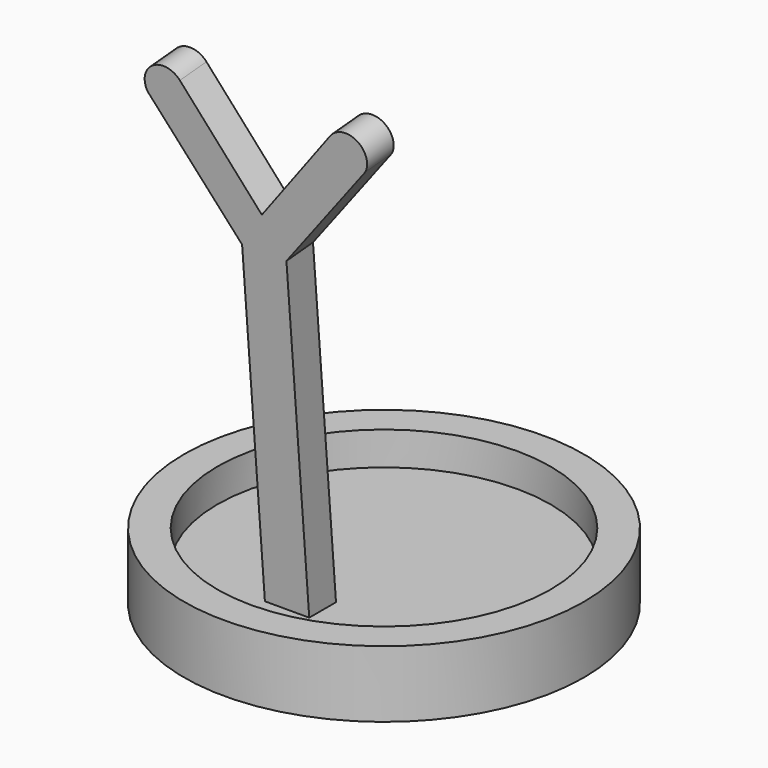
from build123d import *

# Parameters (mm, degrees)
F1_DEPTH = 5
F2_ANGLE = -90
F3_R     = 30
F4_DEPTH = 10
F5_T     = -5
F7_ANGLE = 95


with BuildPart() as f1:
    # F0 (on Front) → F1 (new body)
    with BuildSketch(Plane.XZ):
        with BuildLine():
            Line((0, -54.7956265509), (0, 0))
            Line((0, 0), (-11.2785175443, 14.6720530465))
            ThreePointArc((-11.2785175443, 14.6720530465), (-15.303909638, 15.3671784861), (-16.3261536509, 11.4121818915))
            Line((-16.3261536509, 11.4121818915), (-3.3261657227, -5.2160727791))
            Line((-3.3261657227, -5.2160727791), (-3.3261657227, -54.7956265509))
            Line((-3.3261657227, -54.7956265509), (0, -54.7956265509))
        make_face()
        with BuildLine():
            Line((11.2785175443, 14.6720530465), (0, 0))
            Line((0, 0), (0, -54.7956265509))
            Line((0, -54.7956265509), (3.3261657227, -54.7956265509))
            Line((3.3261657227, -54.7956265509), (3.3261657227, -5.2160727791))
            Line((3.3261657227, -5.2160727791), (16.3261536509, 11.4121818915))
            ThreePointArc((16.3261536509, 11.4121818915), (15.303909638, 15.3671784861), (11.2785175443, 14.6720530465))
        make_face()
    extrude(amount=F1_DEPTH)


with BuildPart() as f1_1:
    # F2: moved
    add(f1.part.rotate(Axis((0, 0, -54.7956265509), (1, 0, 0)), F2_ANGLE))


with BuildPart() as f4:
    # F3 (on Top) → F4 (new body)
    with BuildSketch(Plane.XY):
        with Locations((-27.2480994463, -7.6853618957)):
            Circle(F3_R)
    extrude(amount=F4_DEPTH)

    # F5
    f5_openings = [f4.faces().sort_by_distance(p)[0] for p in [
        (-27.248099, -7.685362, 10),
    ]]
    offset(amount=F5_T, openings=f5_openings)


with BuildPart() as f1_2:
    # F6: moved
    add(f1_1.part.moved(Location((-10.5, -18.4, 60.1))))


with BuildPart() as f1_3:
    # F7: moved
    add(f1_2.part.rotate(Axis((-10.5, -18.4, 5.3043734491), (1, 0, 0)), F7_ANGLE))


with BuildPart() as f1_4:
    # F8: moved
    add(f1_3.part.moved(Location((-18.7, 0, -0.4))))


solid = Compound([f4.part, f1_4.part])
